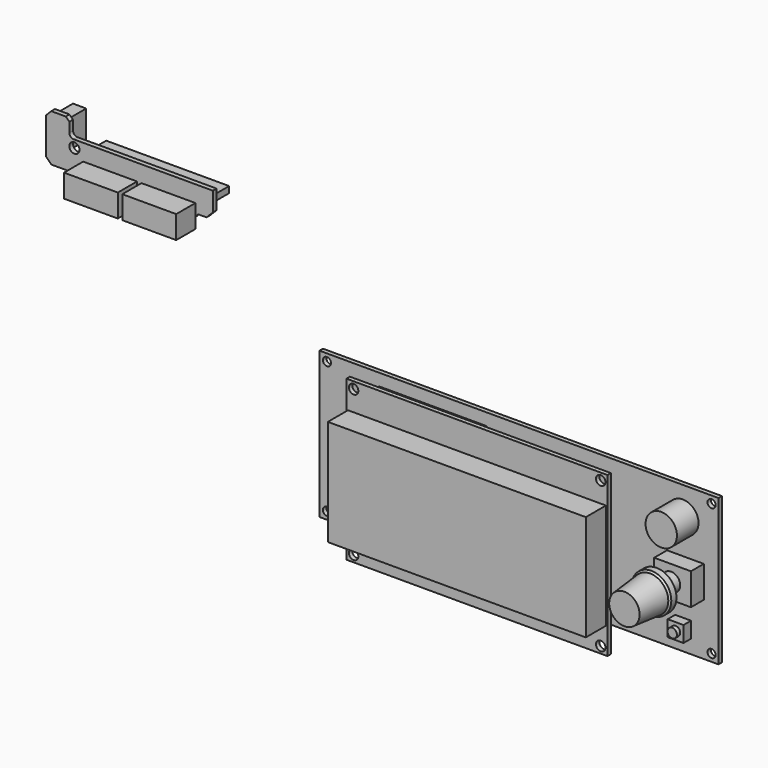
from build123d import *

# Parameters (mm, degrees)
F0_W      = 150.07
F0_H      = 55.09
F0_R      = 1.535
F1_DEPTH  = 1.63
F3_W      = 98.15
F3_H      = 59.96
F3_R      = 1.785
F4_DEPTH  = 1.62
F5_W      = 97.02
F5_H      = 39.82
F6_DEPTH  = 9.45
F7_W      = 5.96
F7_H      = 5.96
F8_DEPTH  = 3.55
F9_R      = 1.76
F10_DEPTH = 1.57
F11_W     = 13.81
F11_H     = 11.92
F12_DEPTH = 6.04
F13_R     = 3.41
F14_DEPTH = 6.86
F19_R     = 5.905
F20_DEPTH = 10.15
F22_DEPTH = 2.91
F24_DEPTH = 6.15
F26_DEPTH = 1.85
F27_W     = 20.27
F27_H     = 8.71
F28_DEPTH = 9.15
F29_R     = 1.91
F30_DEPTH = 1.74
F31_W     = 20.24
F31_H     = 8.62
F31_W_2   = 20.27
F32_DEPTH = 9.02
F33_W     = 4.98
F33_H     = 10.57
F33_W_2   = 46.23
F33_H_2   = 2.37
F34_DEPTH = 8.52
F35_W     = 40.44
F35_H     = 2.36
F36_DEPTH = 4.34


with BuildPart() as f1:
    # F0 (on Front) → F1 (new body)
    with BuildSketch(Plane.XZ):
        with Locations((75.035, -27.545)):
            Rectangle(F0_W, F0_H)
        with Locations((2.815, -52.325)):
            Circle(F0_R, mode=Mode.SUBTRACT)
        with Locations((147.485, -52.325)):
            Circle(F0_R, mode=Mode.SUBTRACT)
        with Locations((2.815, -2.705)):
            Circle(F0_R, mode=Mode.SUBTRACT)
        with Locations((147.485, -2.705)):
            Circle(F0_R, mode=Mode.SUBTRACT)
    extrude(amount=F1_DEPTH)

    # F7 (on face) → F8 (join)
    with BuildSketch(Plane.XZ.offset(1.63)):
        with Locations((136.78, -46.94)):
            Rectangle(F7_W, F7_H)
    extrude(amount=F8_DEPTH)

    # F9 (on face) → F10 (join)
    with BuildSketch(Plane.XZ.offset(5.18)):
        with Locations((136.78, -46.94)):
            Circle(F9_R)
    extrude(amount=F10_DEPTH)

    # F11 (on face) → F12 (join)
    with BuildSketch(Plane.XZ.offset(1.63)):
        with Locations((137.635, -29.55)):
            Rectangle(F11_W, F11_H)
    extrude(amount=F12_DEPTH)

    # F13 (on face) → F14 (join)
    with BuildSketch(Plane.XZ.offset(7.67)):
        with Locations((137.11, -29.55)):
            Circle(F13_R)
    extrude(amount=F14_DEPTH)

    # F17 (on plane+point) → F18 (revolve)
    with BuildSketch(Plane.XY.offset(-29.55)):
        Polygon((144.59, -14.53), (137.11, -14.53), (137.11, -29.65), (142.835, -29.65), (143.96, -17.58), (144.59, -16.95), align=None)
    revolve(axis=Axis((137.11, -22.09, -29.55), (0, -1, 0)))

    # F19 (on face) → F20 (join)
    with BuildSketch(Plane.XZ.offset(1.63)):
        with Locations((136.675, -10.725)):
            Circle(F19_R)
    extrude(amount=F20_DEPTH)

    # F21 (on face) → F22 (join)
    with BuildSketch(Plane(origin=(0, 0, 0), x_dir=(-1, 0, 0), z_dir=(0, 1, 0))):
        Polygon((-26.48, -46.57), (-0.8, -46.57), (-0.8, -20), (-18.87, -20), (-21.02, -22.15), (-26.48, -22.15), align=None)
    extrude(amount=F22_DEPTH)

    # F23 (on face) → F24 (join)
    with BuildSketch(Plane(origin=(0, 0, 0), x_dir=(-1, 0, 0), z_dir=(0, 1, 0))):
        Polygon((-9.02, -13.785), (-9.02, -11.92), (-9.02, -10.055), (-10.485, -8.59), (-15.96, -8.59), (-15.96, -11.92), (-15.96, -15.25), (-10.485, -15.25), align=None)
    extrude(amount=F24_DEPTH)

    # F25 (on face) → F26 (join)
    with BuildSketch(Plane(origin=(0, 6.15, 0), x_dir=(-1, 0, 0), z_dir=(0, 1, 0))):
        with BuildLine():
            ThreePointArc((-14.2525265955, -9.48), (-13.8601997934, -14.6000471127), (-9.48, -11.92))
            ThreePointArc((-9.48, -11.92), (-9.8099528873, -10.5498002066), (-10.7274734045, -9.48))
            Line((-10.7274734045, -9.48), (-11.165, -9.48))
            Line((-11.165, -9.48), (-11.165, -10.03))
            Line((-11.165, -10.03), (-12.49, -10.03))
            Line((-12.49, -10.03), (-13.815, -10.03))
            Line((-13.815, -10.03), (-13.815, -9.48))
            Line((-13.815, -9.48), (-14.2525265955, -9.48))
        make_face()
        Polygon((-14.715, -11.92), (-14.715, -11.39), (-12.49, -11.39), (-10.265, -11.39), (-10.265, -11.92), (-10.265, -12.45), (-12.49, -12.45), (-14.715, -12.45), align=None, mode=Mode.SUBTRACT)
    extrude(amount=F26_DEPTH)

    # F27 (on face) → F28 (join)
    with BuildSketch(Plane(origin=(0, 0, 0), x_dir=(-1, 0, 0), z_dir=(0, 1, 0))):
        with Locations((-56.305, -26.355)):
            Rectangle(F27_W, F27_H)
        with Locations((-79.325, -26.355)):
            Rectangle(F27_W, F27_H)
    extrude(amount=F28_DEPTH)



with BuildPart() as f4:
    # F3 (on offset) → F4 (new body)
    with BuildSketch(Plane.XZ.offset(4.34)):
        with Locations((62.695, -33.06)):
            Rectangle(F3_W, F3_H)
        with Locations((16.305, -60.495)):
            Circle(F3_R, mode=Mode.SUBTRACT)
        with Locations((109.255, -60.495)):
            Circle(F3_R, mode=Mode.SUBTRACT)
        with Locations((16.305, -5.695)):
            Circle(F3_R, mode=Mode.SUBTRACT)
        with Locations((109.255, -5.695)):
            Circle(F3_R, mode=Mode.SUBTRACT)
    extrude(amount=F4_DEPTH)

    # F5 (on face) → F6 (join)
    with BuildSketch(Plane.XZ.offset(5.96)):
        with Locations((62.695, -33.27)):
            Rectangle(F5_W, F5_H)
    extrude(amount=F6_DEPTH)


with BuildPart() as f30:
    # F29 (on Front) → F30 (new body)
    with BuildSketch(Plane.XZ):
        with BuildLine():
            Line((-40, 32.8), (-40, 40))
            Line((-40, 40), (-92.39, 40))
            ThreePointArc((-92.39, 40), (-93.5213708499, 40.4686291501), (-93.99, 41.6))
            Line((-93.99, 41.6), (-93.99, 45.24))
            Line((-93.99, 45.24), (-95.32, 46.57))
            Line((-95.32, 46.57), (-100.78, 46.57))
            Line((-100.78, 46.57), (-102.74, 44.61))
            Line((-102.74, 44.61), (-102.74, 30.85))
            Line((-102.74, 30.85), (-100.78, 28.89))
            Line((-100.78, 28.89), (-88.78, 28.89))
            Line((-88.78, 28.89), (-85.05, 25.16))
            Line((-85.05, 25.16), (-50.73, 25.16))
            Line((-50.73, 25.16), (-45.51, 30.38))
            Line((-45.51, 30.38), (-42.42, 30.38))
            Line((-42.42, 30.38), (-40, 32.8))
        make_face()
        with Locations((-92.08, 37.19)):
            Circle(F29_R, mode=Mode.SUBTRACT)
    extrude(amount=F30_DEPTH)

    # F31 (on face) → F32 (join)
    with BuildSketch(Plane.XZ.offset(1.74)):
        with Locations((-78.66, 29.47)):
            Rectangle(F31_W, F31_H)
        with Locations((-56.715, 29.47)):
            Rectangle(F31_W_2, F31_H)
    extrude(amount=F32_DEPTH)

    # F33 (on face) → F34 (join)
    with BuildSketch(Plane(origin=(0, 0, 0), x_dir=(-1, 0, 0), z_dir=(0, 1, 0))):
        with Locations((98.34, 39.605)):
            Rectangle(F33_W, F33_H)
        with Locations((65.215, 35.505)):
            Rectangle(F33_W_2, F33_H_2)
    extrude(amount=F34_DEPTH)


with BuildPart() as f1_1:
    add(f1.part)

    add(f4.part)  # F36 merges F4
    # F35 (on face) → F36 (join, through all)
    with BuildSketch(Plane(origin=(0, 0, 0), x_dir=(-1, 0, 0), z_dir=(0, 1, 0))):
        with Locations((-42.69, -5.71)):
            Rectangle(F35_W, F35_H)
    extrude(amount=-F36_DEPTH)


solid = Compound([f30.part, f1_1.part])
